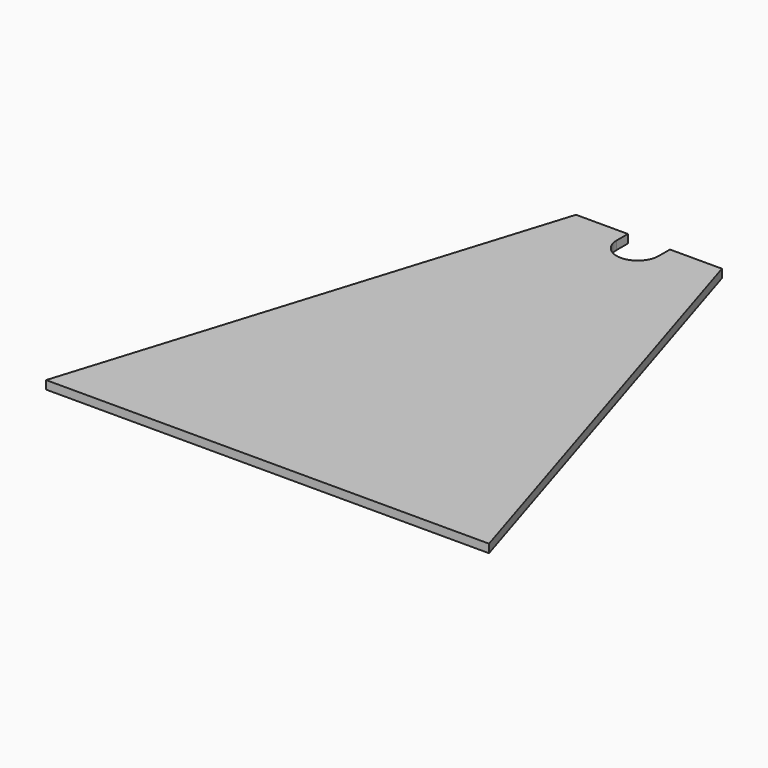
from build123d import *

# Parameters (mm, degrees)
F1_DEPTH = 3


with BuildPart() as f1:
    # F0 (on Top) → F1 (new body)
    with BuildSketch(Plane.XY):
        with BuildLine():
            Line((-78.97, 0), (0, 0))
            Line((0, 0), (78.97, 0))
            Line((78.97, 0), (26.020896, 170))
            Line((26.020896, 170), (7.5, 170))
            Line((7.5, 170), (7.5, 165))
            ThreePointArc((7.5, 165), (5.303301, 159.696699), (0, 157.5))
            ThreePointArc((0, 157.5), (-5.303301, 159.696699), (-7.5, 165))
            Line((-7.5, 165), (-7.5, 170))
            Line((-7.5, 170), (-26.020896, 170))
            Line((-26.020896, 170), (-78.97, 0))
        make_face()
    extrude(amount=F1_DEPTH)


solid = f1.part
